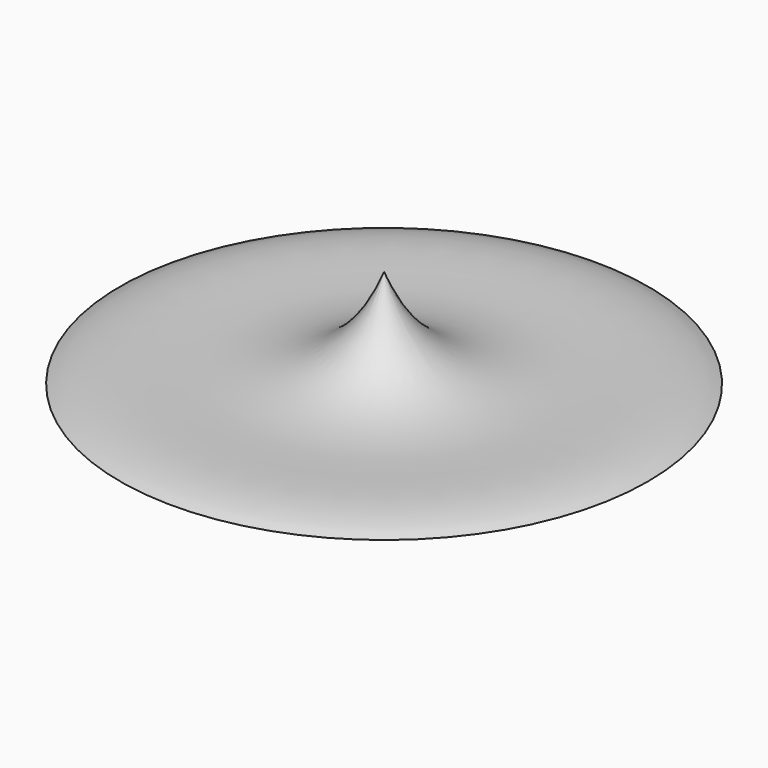
from build123d import *


with BuildPart() as f1:
    # F0 (on Front) → F1 (revolve)
    with BuildSketch(Plane.XZ):
        with BuildLine():
            add(Edge.make_bspline(
                [(0, 15), (8.105262, -6.390598), (29.010066, 5.015192), (40, 0)],
                knots=[0, 0, 0, 0, 42.720019, 42.720019, 42.720019, 42.720019], degree=3))
            Line((0, 15), (0, 0))
            Line((0, 0), (40, 0))
        make_face()
    revolve(axis=Axis((0, 0, 49.995523), (0, 0, 1)))


solid = f1.part
